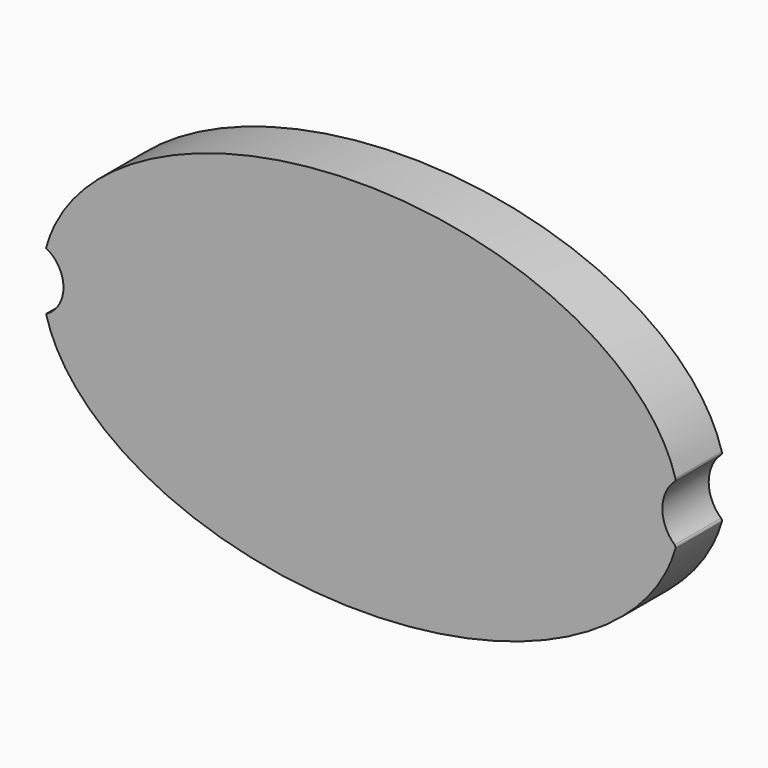
from build123d import *

# Parameters (mm, degrees)
F1_DEPTH = 10


with BuildPart() as f1:
    # F0 (on Front) → F1 (new body)
    with BuildSketch(Plane.XZ):
        with BuildLine():
            ThreePointArc((54.117780805, 4.8017921968), (54.2613071615, 5.0333847163), (54.2620989329, 5.3058444072))
            add(Edge.make_bspline(
                [(54.2620989329, 5.3058444072), (46.6098488239, 32.6316250563), (-0.2621069626, 32.499630948), (-47.134062749, 32.3676368396), (-54.3452147559, 5)],
                knots=[0.1639907968, 0.1639907968, 0.1639907968, 1.575561926, 1.575561926, 2.9871330551, 2.9871330551, 2.9871330551], degree=2, weights=[1, 0.7611022444, 1, 0.7611022444, 1]))
            ThreePointArc((-54.3452147559, 5), (-51.3452147559, 0), (-54.3452147559, -5))
            add(Edge.make_bspline(
                [(-54.3452147559, -5), (-47.134062749, -32.3676368396), (-0.2621069626, -32.499630948), (46.6098488239, -32.6316250563), (54.2620989329, -5.3058444072)],
                knots=[3.2960522521, 3.2960522521, 3.2960522521, 4.7076233812, 4.7076233812, 6.1191945103, 6.1191945103, 6.1191945103], degree=2, weights=[1, 0.7611022444, 1, 0.7611022444, 1]))
            ThreePointArc((54.2620989329, -5.3058444072), (54.2613071615, -5.0333847163), (54.117780805, -4.8017921968))
            ThreePointArc((54.117780805, -4.8017921968), (52, 0), (54.117780805, 4.8017921968))
        make_face()
    extrude(amount=-F1_DEPTH)


solid = f1.part
